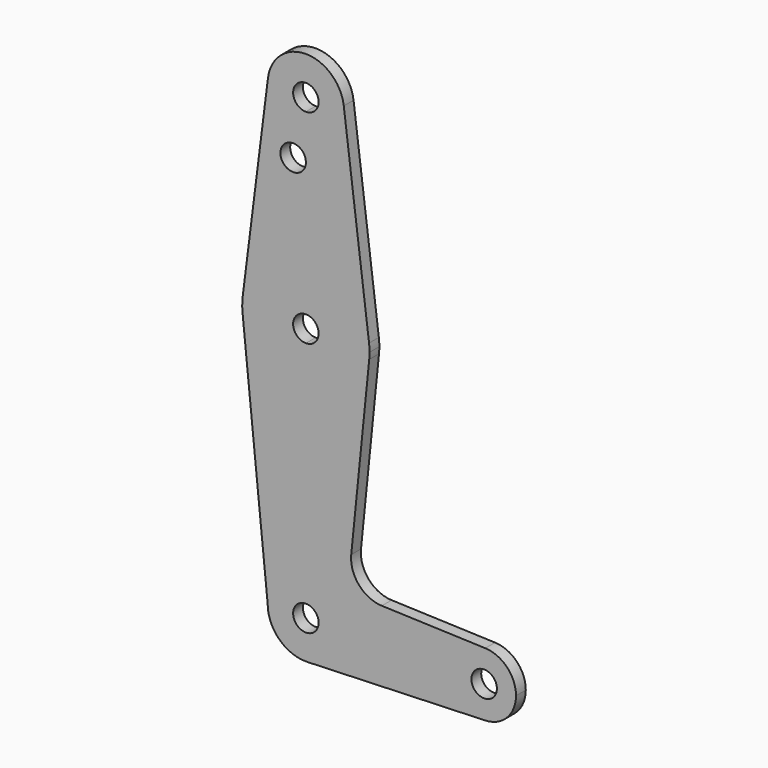
from build123d import *

# Parameters (mm, degrees)
F0_R     = 3.175
F1_DEPTH = 3.048


with BuildPart() as f1:
    # F0 (on Front) → F1 (new body)
    with BuildSketch(Plane.XZ):
        with BuildLine():
            ThreePointArc((9.4502929642, 115.490625), (0, 123.825), (-9.4502929642, 115.490625))
            ThreePointArc((-9.4502929642, 115.490625), (-7.14375, 107.9998046905), (0, 104.775))
            ThreePointArc((0, 104.775), (6.7351920908, 107.5648079092), (9.525, 114.3))
            ThreePointArc((9.525, 114.3), (9.5063048942, 114.896483242), (9.4502929642, 115.490625))
        make_face()
        with BuildLine():
            ThreePointArc((3.175, 114.3), (2.2450640303, 112.0549359697), (0, 111.125))
            ThreePointArc((0, 111.125), (-2.2450640303, 116.5450640303), (3.175, 114.3))
        make_face(mode=Mode.SUBTRACT)
        with BuildLine():
            Line((0, 100.0252), (0, 79.375))
            ThreePointArc((0, 79.375), (10.5003255158, 75.40625), (15.7504882737, 65.484375))
            Line((15.7504882737, 65.484375), (9.4502929642, 115.490625))
            ThreePointArc((9.4502929642, 115.490625), (9.5063048942, 114.896483242), (9.525, 114.3))
            ThreePointArc((9.525, 114.3), (6.7351920908, 107.5648079092), (0, 104.775))
            Line((0, 104.775), (0, 100.0252))
        make_face()
        with BuildLine():
            Line((-9.4502929642, 115.490625), (-15.7504882737, 65.484375))
            ThreePointArc((-15.7504882737, 65.484375), (-10.5003255158, 75.40625), (0, 79.375))
            Line((0, 79.375), (0, 100.0252))
            Line((0, 100.0252), (0, 104.775))
            ThreePointArc((0, 104.775), (-7.14375, 107.9998046905), (-9.4502929642, 115.490625))
        make_face()
        with Locations((-3.175, 100.0252)):
            Circle(F0_R, mode=Mode.SUBTRACT)
        with BuildLine():
            ThreePointArc((-15.7942028036, 61.9003804205), (-10.644756084, 51.722700101), (0, 47.625))
            Line((0, 47.625), (0, 60.325))
            ThreePointArc((0, 60.325), (-3.175, 63.5), (0, 66.675))
            Line((0, 66.675), (0, 79.375))
            ThreePointArc((0, 79.375), (-10.5003255158, 75.40625), (-15.7504882737, 65.484375))
            ThreePointArc((-15.7504882737, 65.484375), (-15.8738192656, 63.6936154008), (-15.7942028036, 61.9003804205))
        make_face()
        with BuildLine():
            Line((0, 60.325), (0, 47.625))
            ThreePointArc((0, 47.625), (10.644756084, 51.722700101), (15.7942028036, 61.9003804205))
            ThreePointArc((15.7942028036, 61.9003804205), (15.8547878338, 62.6991705884), (15.875, 63.5))
            ThreePointArc((15.875, 63.5), (15.8438414904, 64.4941387366), (15.7504882737, 65.484375))
            ThreePointArc((15.7504882737, 65.484375), (10.5003255158, 75.40625), (0, 79.375))
            Line((0, 79.375), (0, 66.675))
            ThreePointArc((0, 66.675), (2.2450640303, 65.7450640303), (3.175, 63.5))
            ThreePointArc((3.175, 63.5), (2.2450640303, 61.2549359697), (0, 60.325))
        make_face()
        with BuildLine():
            Line((0, 47.625), (0, 9.525))
            ThreePointArc((0, 9.525), (6.7351920908, 6.7351920908), (9.525, 0))
            Line((9.525, 0), (36.5125, 0))
            ThreePointArc((36.5125, 0), (38.9384772185, 5.7120069047), (44.7334821429, 7.9324362036))
            Line((44.7334821429, 7.9324362036), (18.9333780848, 8.8544567023))
            ThreePointArc((18.9333780848, 8.8544567023), (13.2249730469, 11.5748807596), (11.3075770351, 17.6006742893))
            Line((11.3075770351, 17.6006742893), (15.7942028036, 61.9003804205))
            ThreePointArc((15.7942028036, 61.9003804205), (10.644756084, 51.722700101), (0, 47.625))
        make_face()
        with BuildLine():
            ThreePointArc((-9.525, 0), (-6.7351920908, 6.7351920908), (0, 9.525))
            Line((0, 9.525), (0, 47.625))
            ThreePointArc((0, 47.625), (-10.644756084, 51.722700101), (-15.7942028036, 61.9003804205))
            Line((-15.7942028036, 61.9003804205), (-9.525, 0))
        make_face()
        with BuildLine():
            Line((36.5125, 0), (9.525, 0))
            ThreePointArc((9.525, 0), (6.8544082857, -6.6138273378), (0.3401785714, -9.5189234444))
            Line((0.3401785714, -9.5189234444), (44.7334821429, -7.9324362036))
            ThreePointArc((44.7334821429, -7.9324362036), (38.9384772185, -5.7120069047), (36.5125, 0))
        make_face()
        with BuildLine():
            ThreePointArc((3.175, 0), (-2.2450640303, -2.2450640303), (0, 3.175))
            Line((0, 3.175), (0, 9.525))
            ThreePointArc((0, 9.525), (-6.7351920908, 6.7351920908), (-9.525, 0))
            ThreePointArc((-9.525, 0), (-6.6138273378, -6.8544082857), (0.3401785714, -9.5189234444))
            ThreePointArc((0.3401785714, -9.5189234444), (6.8544082857, -6.6138273378), (9.525, 0))
            Line((9.525, 0), (3.175, 0))
        make_face()
        with BuildLine():
            Line((0, 9.525), (0, 3.175))
            ThreePointArc((0, 3.175), (2.2450640303, 2.2450640303), (3.175, 0))
            Line((3.175, 0), (9.525, 0))
            ThreePointArc((9.525, 0), (6.7351920908, 6.7351920908), (0, 9.525))
        make_face()
        with BuildLine():
            ThreePointArc((44.7334821429, 7.9324362036), (38.9384772185, 5.7120069047), (36.5125, 0))
            ThreePointArc((36.5125, 0), (38.9384772185, -5.7120069047), (44.7334821429, -7.9324362036))
            ThreePointArc((44.7334821429, -7.9324362036), (50.1620069047, -5.5115227815), (52.3875, 0))
            ThreePointArc((52.3875, 0), (50.1620069047, 5.5115227815), (44.7334821429, 7.9324362036))
        make_face()
        with BuildLine():
            ThreePointArc((47.625, 0), (44.45, -3.175), (41.275, 0))
            ThreePointArc((41.275, 0), (44.45, 3.175), (47.625, 0))
        make_face(mode=Mode.SUBTRACT)
    extrude(amount=F1_DEPTH)


solid = f1.part
